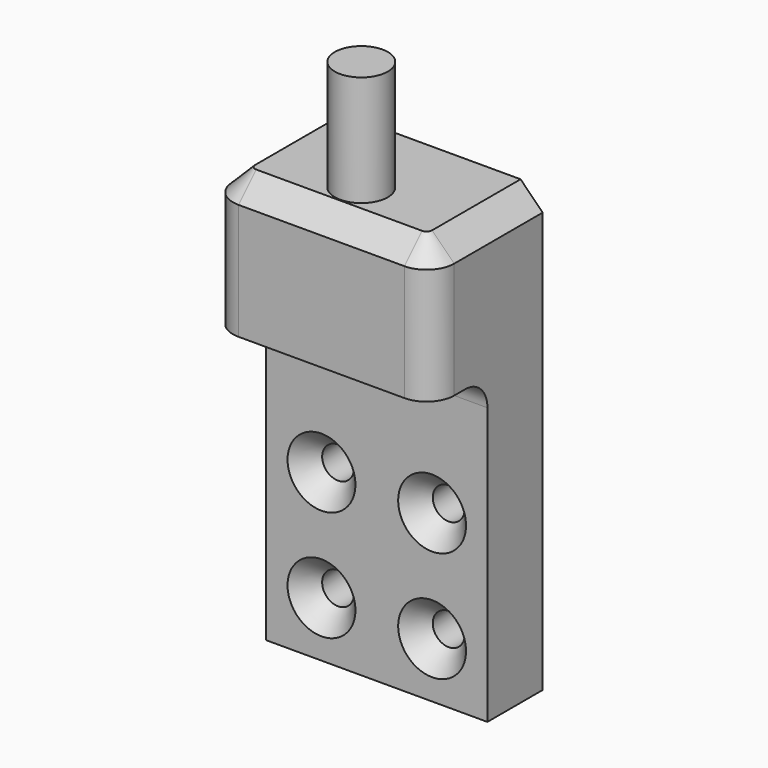
from build123d import *

# Parameters (mm, degrees)
F0_W           = 25.4
F0_H           = 50.8
F1_DEPTH       = 15.875
F2_R           = 3.048
F3_DEPTH       = 12.7
F4_W           = 7.9375
F4_H           = 34.925
F5_DEPTH       = 25.4
F6_R           = 3.175
F8_D           = 3.6576
F8_CSINK_D     = 7.7978
F8_CSINK_ANGLE = 82
F9_SIZE        = 2.54


with BuildPart() as f1:
    # F0 (on Front) → F1 (new body)
    with BuildSketch(Plane.XZ):
        with Locations((0, -25.4)):
            Rectangle(F0_W, F0_H)
    extrude(amount=F1_DEPTH)

    # F2 (on face) → F3 (join)
    with BuildSketch(Plane.XY):
        with Locations((0, -10.16)):
            Circle(F2_R)
    extrude(amount=F3_DEPTH)

    # F4 (on face) → F5 (cut, through all)
    with BuildSketch(Plane.YZ.offset(12.7)):
        with Locations((-11.90625, -33.3375)):
            Rectangle(F4_W, F4_H)
    extrude(amount=-F5_DEPTH, mode=Mode.SUBTRACT)

    # F6
    f6_edges = [f1.edges().sort_by_distance(p)[0] for p in [
        (12.7, -15.875, -7.9375),
        (-12.7, -15.875, -7.9375),
        (0, -7.9375, -15.875),
    ]]
    fillet(f6_edges, radius=F6_R)

    # F8 (through all)
    with Locations(Plane.XZ.offset(7.9375)):
        with Locations((-6.35, -31.75), (6.35, -31.75), (6.35, -44.45), (-6.35, -44.45)):
            CounterSinkHole(F8_D / 2, F8_CSINK_D / 2, counter_sink_angle=F8_CSINK_ANGLE)

    # F9
    f9_edges = [f1.edges().sort_by_distance(p)[0] for p in [
        (0, -15.875, 0),
    ]]
    chamfer(f9_edges, length=F9_SIZE)


solid = f1.part
